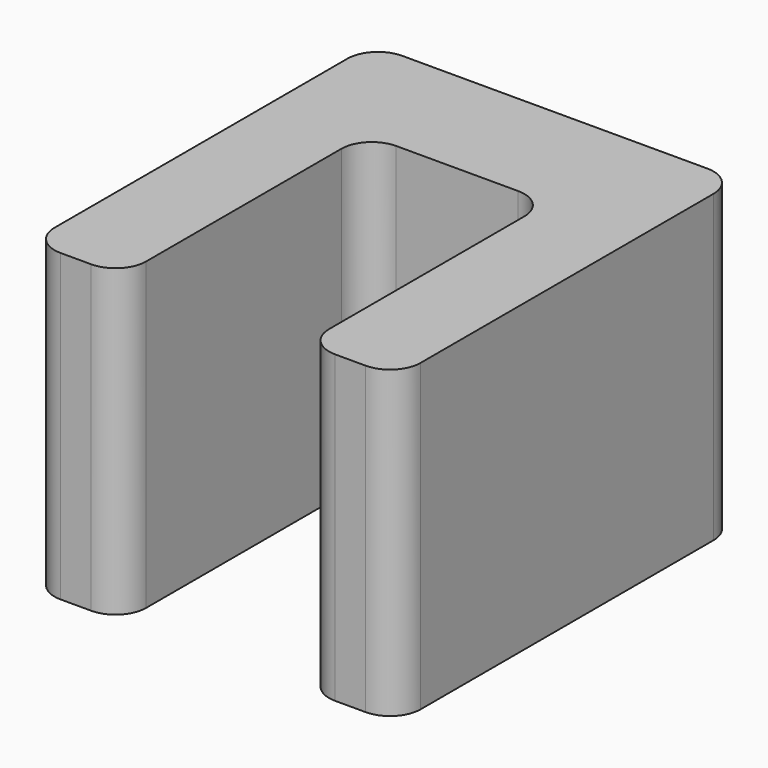
from build123d import *

# Parameters (mm, degrees)
F1_DEPTH = 10


with BuildPart() as f1:
    # F0 (on Top) → F1 (new body)
    with BuildSketch(Plane.XY):
        with BuildLine():
            ThreePointArc((-47.023135, 19.481115), (-46.730242, 20.188222), (-46.023135, 20.481115))
            Line((-46.023135, 20.481115), (-42.023135, 20.481115))
            ThreePointArc((-42.023135, 20.481115), (-41.316028, 20.188222), (-41.023135, 19.481115))
            Line((-41.023135, 19.481115), (-41.023135, 11.481115))
            ThreePointArc((-41.023135, 11.481115), (-40.730242, 10.774009), (-40.023135, 10.481115))
            Line((-40.023135, 10.481115), (-39.023135, 10.481115))
            ThreePointArc((-39.023135, 10.481115), (-38.316028, 10.774009), (-38.023135, 11.481115))
            Line((-38.023135, 11.481115), (-38.023135, 23.481115))
            ThreePointArc((-38.023135, 23.481115), (-38.316028, 24.188222), (-39.023135, 24.481115))
            Line((-39.023135, 24.481115), (-49.023135, 24.481115))
            ThreePointArc((-49.023135, 24.481115), (-49.730242, 24.188222), (-50.023135, 23.481115))
            Line((-50.023135, 23.481115), (-50.023135, 11.481115))
            ThreePointArc((-50.023135, 11.481115), (-49.730242, 10.774009), (-49.023135, 10.481115))
            Line((-49.023135, 10.481115), (-48.023135, 10.481115))
            ThreePointArc((-48.023135, 10.481115), (-47.316028, 10.774009), (-47.023135, 11.481115))
            Line((-47.023135, 11.481115), (-47.023135, 19.481115))
        make_face()
    extrude(amount=F1_DEPTH)


solid = f1.part
